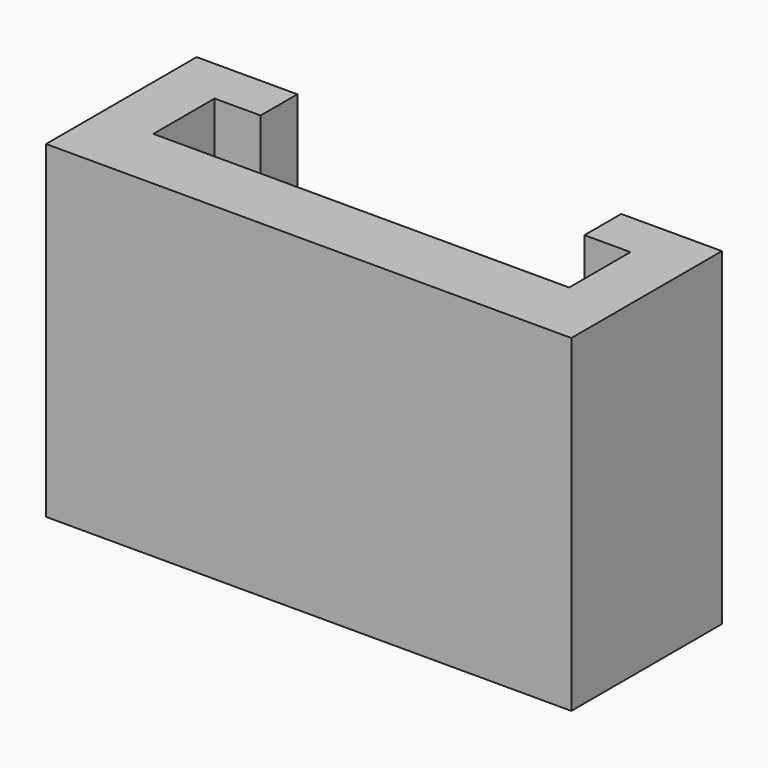
from build123d import *

# Parameters (mm, degrees)
F1_DEPTH = 15


with BuildPart() as f1:
    # F0 (on Top) → F1 (new body)
    with BuildSketch(Plane.XY):
        Polygon((-11, 0), (0, 0), (0, 3), (-4, 3), (-6, 3), (-9.5, 3), (-9.5, 6.5), (-7.4, 6.5), (-7.4, 8.6), (-11, 8.6), (-12, 8.6), (-12, 0), align=None)
    extrude(amount=F1_DEPTH)

    # F2: F1 across plane


with BuildPart() as f1_1:
    add(f1.part)
    add(f1.part.mirror(Plane.YZ))


solid = f1_1.part
